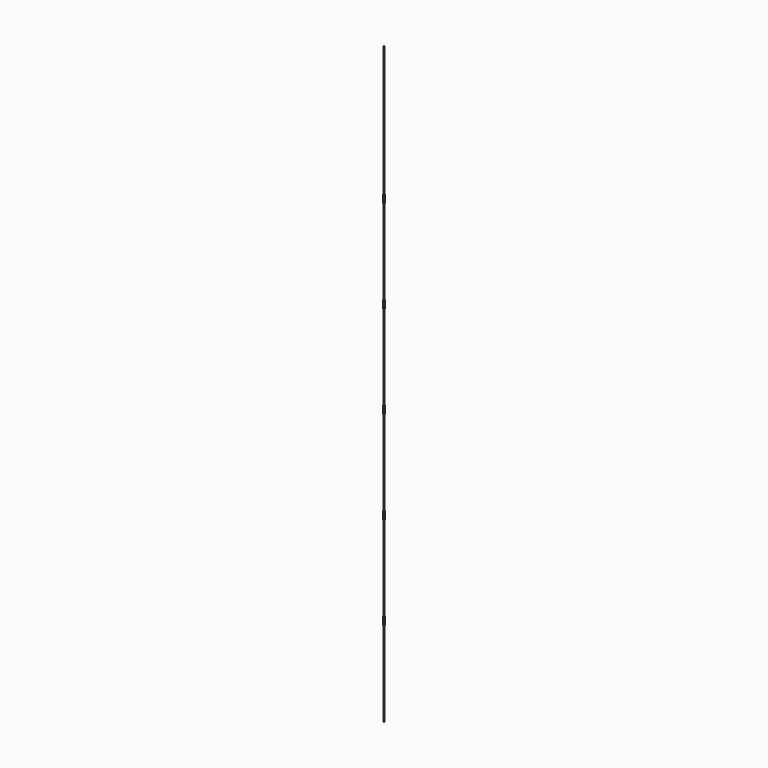
from build123d import *

# Parameters (mm, degrees)
F0_R      = 1.25
F0_R_2    = 1
F1_DEPTH  = 1500
F2_W      = 1.625
F2_H      = 20
F10_R     = 0.5
F11_DEPTH = 12.7
F12_R     = 0.5
F13_DEPTH = 12.7
F15_R     = 0.5
F16_DEPTH = 12.7
F17_R     = 0.5
F18_DEPTH = 12.7
F19_R     = 0.5
F20_DEPTH = 12.7
F21_R     = 0.5
F22_DEPTH = 12.7
F23_R     = 0.5
F24_DEPTH = 12.7
F25_R     = 1
F26_DEPTH = 0.25
F27_R     = 1
F28_DEPTH = 0.25


with BuildPart() as f1:
    # F0 (on Top) → F1 (new body)
    with BuildSketch(Plane.XY):
        Circle(F0_R)
        Circle(F0_R_2, mode=Mode.SUBTRACT)
    extrude(amount=F1_DEPTH)

    # F2 (on Front) → F3 (revolve)
    with BuildSketch(Plane.XZ):
        with Locations((0.8125, 224.285714)):
            Rectangle(F2_W, F2_H)
    revolve(axis=Axis((0, 0, 15.561994), (0, 0, 1)))

    # F2 (on Front) → F5 (revolve)
    with BuildSketch(Plane.XZ):
        with Locations((0.8125, 458.571429)):
            Rectangle(F2_W, F2_H)
    revolve(axis=Axis((0, 0, 742.36602), (0, 0, 1)))

    # F2 (on Front) → F6 (revolve)
    with BuildSketch(Plane.XZ):
        with Locations((0.8125, 692.857143)):
            Rectangle(F2_W, F2_H)
    revolve(axis=Axis((0, 0, 742.36602), (0, 0, 1)))



with BuildPart() as f7:
    # F2 (on Front) → F7 (revolve)
    with BuildSketch(Plane.XZ):
        with Locations((0.8125, 927.142857)):
            Rectangle(F2_W, F2_H)
    revolve(axis=Axis((0, 0, 742.36602), (0, 0, 1)))


with BuildPart() as f1_1:
    add(f1.part)

    add(f7.part)  # F8 merges F7
    # F2 (on Front) → F8 (revolve)
    with BuildSketch(Plane.XZ):
        with Locations((0.8125, 927.142857)):
            Rectangle(F2_W, F2_H)
    revolve(axis=Axis((0, 0, 742.36602), (0, 0, 1)))

    # F2 (on Front) → F9 (revolve)
    with BuildSketch(Plane.XZ):
        with Locations((0.8125, 1161.428571)):
            Rectangle(F2_W, F2_H)
    revolve(axis=Axis((0, 0, 742.36602), (0, 0, 1)))

    # F10 (on Front) → F11 (cut, symmetric)
    with BuildSketch(Plane.XZ):
        with Locations((0, 101.6)):
            Circle(F10_R)
        with Locations((0, 346.971429)):
            Circle(F10_R)
    extrude(amount=F11_DEPTH, both=True, mode=Mode.SUBTRACT)

    # F12 (on Right) → F13 (cut, symmetric)
    with BuildSketch(Plane.YZ):
        with Locations((0, 112.685714)):
            Circle(F12_R)
        with Locations((0, 335.885714)):
            Circle(F12_R)
    extrude(amount=F13_DEPTH, both=True, mode=Mode.SUBTRACT)

    # F15 (on Front) → F16 (cut, symmetric)
    with BuildSketch(Plane.XZ):
        with Locations((0, 570.171429)):
            Circle(F15_R)
        with Locations((0, 815.542857)):
            Circle(F15_R)
    extrude(amount=F16_DEPTH, both=True, mode=Mode.SUBTRACT)

    # F17 (on Right) → F18 (cut, symmetric)
    with BuildSketch(Plane.YZ):
        with Locations((0, 804.457143)):
            Circle(F17_R)
    extrude(amount=F18_DEPTH, both=True, mode=Mode.SUBTRACT)

    # F19 (on Right) → F20 (cut, symmetric)
    with BuildSketch(Plane.YZ):
        with Locations((0, 581.257143)):
            Circle(F19_R)
    extrude(amount=F20_DEPTH, both=True, mode=Mode.SUBTRACT)

    # F21 (on Right) → F22 (cut, symmetric)
    with BuildSketch(Plane.YZ):
        with Locations((0, 1038.742857)):
            Circle(F21_R)
    extrude(amount=F22_DEPTH, both=True, mode=Mode.SUBTRACT)

    # F23 (on Front) → F24 (cut, symmetric)
    with BuildSketch(Plane.XZ):
        with Locations((0, 1049.828571)):
            Circle(F23_R)
    extrude(amount=F24_DEPTH, both=True, mode=Mode.SUBTRACT)

    # F25 (on Top) → F26 (join)
    with BuildSketch(Plane.XY):
        Circle(F25_R)
    extrude(amount=F26_DEPTH)

    # F27 (on face) → F28 (join)
    with BuildSketch(Plane.XY.offset(1500)):
        Circle(F27_R)
    extrude(amount=-F28_DEPTH)


solid = f1_1.part
